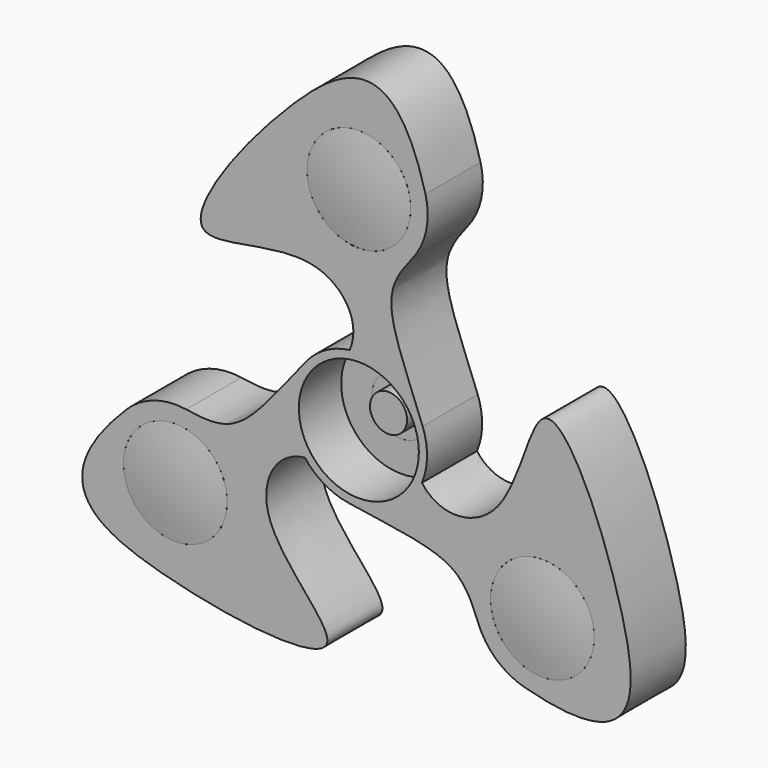
from build123d import *

# Parameters (mm, degrees)
F1_R     = 5.5
F1_R_2   = 8
F2_DEPTH = 13
F3_COUNT = 3
F4_R     = 11.33
F4_R_2   = 9.785
F5_DEPTH = 10
F8_COUNT = 3


with BuildPart() as f2:
    # F1 (on Front) → F2 (new body)
    with BuildSketch(Plane.XZ):
        with BuildLine():
            add(Edge.make_bspline(
                [(10.0984836732, 31.8133872999), (7.558753485, 28.6805380031), (4.0432193994, 22.9783890623), (9.1619801543, 12.1558341217), (12.039525019, 4.5623965541)],
                knots=[0, 0, 0, 0, 0.4120905164, 1, 1, 1, 1], degree=3))
            ThreePointArc((10.0984836732, 31.8133872999), (12.7080454573, 37.2603685186), (12.5745179469, 43.2987116279))
            add(Edge.make_bspline(
                [(12.5745179469, 43.2987116279), (6.6072960699, 66.0454524924), (-14.5679840989, 51.4204321992), (-39.8540764888, 15.942744034), (-7.1816093607, 29.9196179316), (4.2938148989, 11.8892587399), (-13.2845089698, 1.9699744019), (-12.7468362826, -1.8121230049)],
                knots=[0, 0, 0, 0, 0.2213869873, 0.4595042549, 0.6543730694, 0.8136245813, 1, 1, 1, 1], degree=3))
            ThreePointArc((-12.7468362826, -1.8121230049), (3.2068204202, -12.4692392628), (12.039525019, 4.5623965541))
        make_face()
        Circle(F1_R, mode=Mode.SUBTRACT)
        with Locations((0, 40)):
            Circle(F1_R_2, mode=Mode.SUBTRACT)
    extrude(amount=F2_DEPTH)

    # F3: F2 ×3 about axis
    f3_axis = Axis((0, -0.9837578982, 0), (0, -1, 0))


with BuildPart() as f2_1:
    add(f2.part)
    for i in range(1, F3_COUNT):
        add(f2.part.rotate(f3_axis, i * 360 / F3_COUNT))

    # F4 (on face) → F5 (cut)
    with BuildSketch(Plane.XZ.offset(13)):
        Circle(F4_R)
        with Locations((0, 40)):
            Circle(F4_R_2)
        with Locations((-34.6410161514, -20)):
            Circle(F4_R_2)
        with Locations((34.6410161514, -20)):
            Circle(F4_R_2)
    extrude(amount=-F5_DEPTH, mode=Mode.SUBTRACT)


with BuildPart() as f7:
    # F6 (on Right) → F7 (revolve)
    with BuildSketch(Plane.YZ):
        with BuildLine():
            Line((-9.7156, 40), (-9.7156, 49.785))
            Line((-9.7156, 49.785), (-13, 49.785))
            ThreePointArc((-13, 49.785), (-13.6021094072, 44.9089575024), (-13.8032621254, 40))
            Line((-13.8032621254, 40), (-9.7156, 40))
        make_face()
    revolve(axis=Axis((0, -6.9016310627, 40), (0, -1, 0)))


with BuildPart() as f8_1:
    # F8: instance of F7
    add(f7.part.rotate(Axis((0, -0.9837578982, 0), (0, -1, 0)), 1 * 360 / F8_COUNT))


with BuildPart() as f8_2:
    # F8: instance of F7
    add(f7.part.rotate(Axis((0, -0.9837578982, 0), (0, -1, 0)), 2 * 360 / F8_COUNT))


with BuildPart() as f10:
    # F9 (on Right) → F10 (revolve)
    with BuildSketch(Plane.YZ):
        with BuildLine():
            Line((-6, 3.5), (-6, 0))
            Line((-6, 0), (3, 0))
            ThreePointArc((3, 0), (2.2395002754, 6.4274800661), (0, 12.5))
            Line((0, 12.5), (0, 5.5))
            Line((0, 5.5), (-3, 5.5))
            Line((-3, 5.5), (-3, 3.5))
            Line((-3, 3.5), (-6, 3.5))
        make_face()
    revolve(axis=Axis((0, 5.7597449049, 0), (0, -1, 0)))


solid = Compound([f2_1.part, f7.part, f8_1.part, f8_2.part, f10.part])
